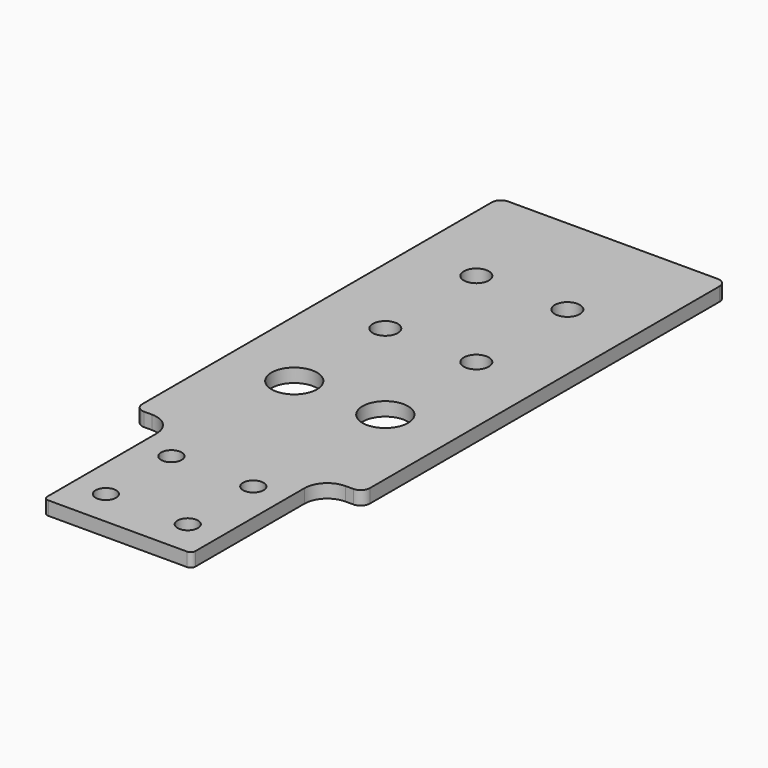
from build123d import *

# Parameters (mm, degrees)
F1_DEPTH = 3
F2_R     = 5
F2_R_2   = 2.75
F3_DEPTH = 3
F4_R     = 2.25
F5_DEPTH = 3
F6_R     = 1


with BuildPart() as f1:
    # F0 (on Top) → F1 (new body)
    with BuildSketch(Plane.XY):
        with BuildLine():
            ThreePointArc((25, 48), (24.414214, 49.414214), (23, 50))
            Line((23, 50), (-23, 50))
            ThreePointArc((-23, 50), (-24.414214, 49.414214), (-25, 48))
            Line((-25, 48), (-25, -48))
            ThreePointArc((-25, -48), (-24.414214, -49.414214), (-23, -50))
            Line((-23, -50), (-21.25, -50))
            ThreePointArc((-21.25, -50), (-17.714466, -51.464466), (-16.25, -55))
            Line((-16.25, -55), (-16.25, -86))
            Line((-16.25, -86), (0, -86))
            Line((0, -86), (16.25, -86))
            Line((16.25, -86), (16.25, -55))
            ThreePointArc((16.25, -55), (17.714466, -51.464466), (21.25, -50))
            Line((21.25, -50), (23, -50))
            ThreePointArc((23, -50), (24.414214, -49.414214), (25, -48))
            Line((25, -48), (25, 48))
        make_face()
    extrude(amount=F1_DEPTH)

    # F2 (on face) → F3 (cut, through all)
    with BuildSketch(Plane.XY.offset(3)):
        with Locations((-10, -25)):
            Circle(F2_R)
        with Locations((-10, 0)):
            Circle(F2_R_2)
        with Locations((-10, 25)):
            Circle(F2_R_2)
        with Locations((10, 25)):
            Circle(F2_R_2)
        with Locations((10, 0)):
            Circle(F2_R_2)
        with Locations((10, -25)):
            Circle(F2_R)
    extrude(amount=-F3_DEPTH, mode=Mode.SUBTRACT)

    # F4 (on face) → F5 (cut, through all)
    with BuildSketch(Plane.XY.offset(3)):
        with Locations((-9, -60)):
            Circle(F4_R)
        with Locations((9, -60)):
            Circle(F4_R)
        with Locations((9, -78)):
            Circle(F4_R)
        with Locations((-9, -78)):
            Circle(F4_R)
    extrude(amount=-F5_DEPTH, mode=Mode.SUBTRACT)

    # F6
    f6_edges = [f1.edges().sort_by_distance(p)[0] for p in [
        (-16.25, -86, 1.5),
        (16.25, -86, 1.5),
    ]]
    fillet(f6_edges, radius=F6_R)


solid = f1.part
